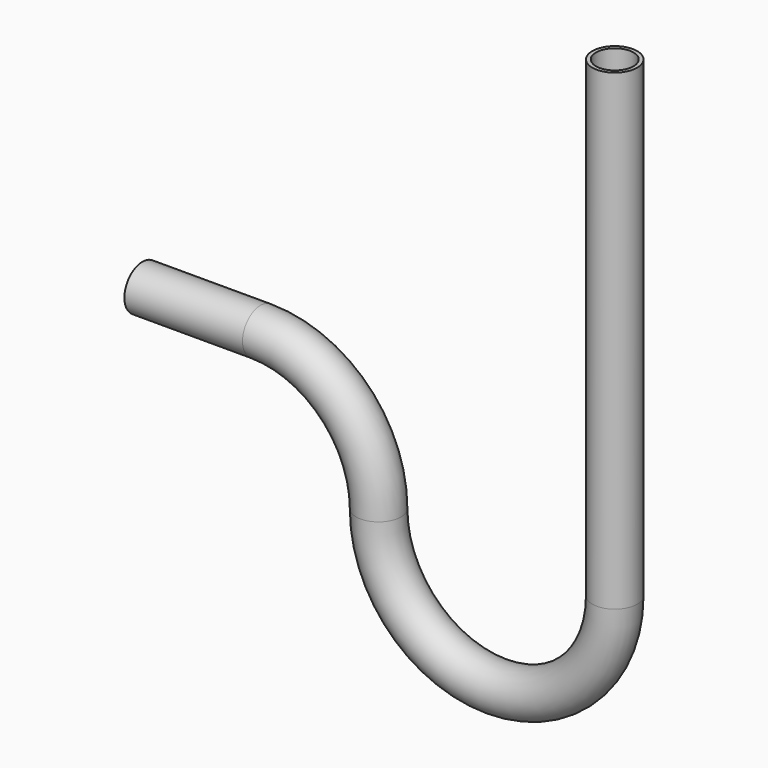
from build123d import *

# Parameters (mm, degrees)
F0_R = 4.7625
F1_R = 3.96875


with BuildPart() as f3:
    # F3: sweep along a path in F2
    with BuildLine(Plane.XZ) as f3_path:
        Line((25, 125), (25, 25))
        ThreePointArc((25, 25), (0, 0), (-25, 25))
        ThreePointArc((-25, 25), (-32.3223304703, 42.6776695297), (-50, 50))
        Line((-50, 50), (-75, 50))
    # F0 (on Right) → F3 (sweep)
    with BuildSketch(Plane.YZ):
        Circle(F0_R)
    sweep(path=f3_path.line)

    # F4: sweep along a path in F2
    with BuildLine(Plane.XZ) as f4_path:
        Line((25, 125), (25, 25))
        ThreePointArc((25, 25), (0, 0), (-25, 25))
        ThreePointArc((-25, 25), (-32.3223304703, 42.6776695297), (-50, 50))
        Line((-50, 50), (-75, 50))
    # F1 (on Right) → F4 (sweep, cut)
    with BuildSketch(Plane.YZ):
        Circle(F1_R)
    sweep(path=f4_path.line, mode=Mode.SUBTRACT)


solid = f3.part
